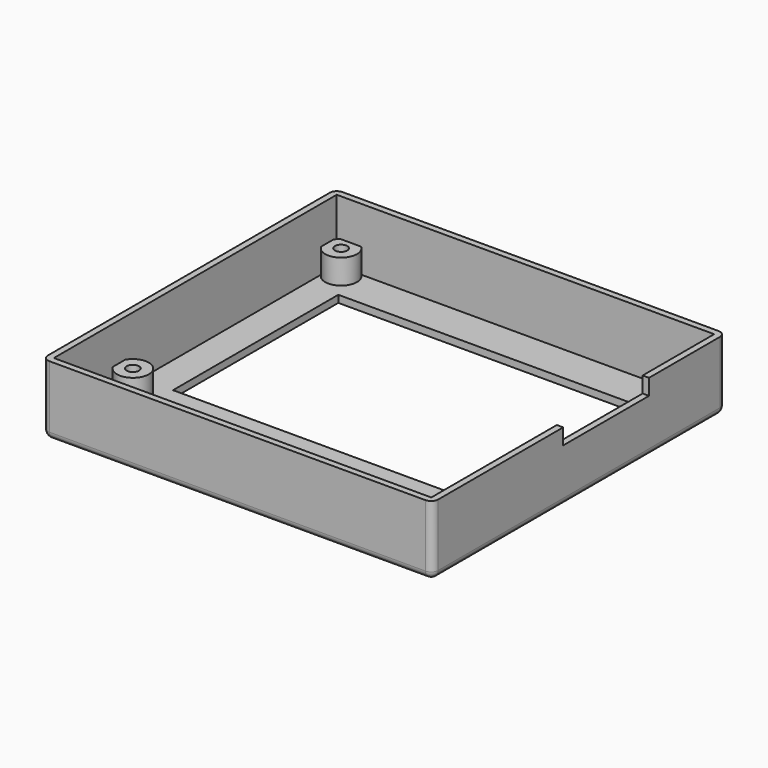
from build123d import *

# Parameters (mm, degrees)
SKETCH_W      = 98.2
SKETCH_H      = 92.2
SKETCH_R      = 5
SKETCH_R_2    = 3.2
SKETCH_R_3    = 1.4
SKETCH_R_4    = 2.2
SKETCH_W_2    = 79
SKETCH_H_2    = 52
PAD_DEPTH     = 1.8
SKETCH001_W   = 98.2
SKETCH001_H   = 92.2
SKETCH001_W_2 = 95
SKETCH001_H_2 = 89
PAD001_DEPTH  = 15.7
SKETCH002_R   = 4
SKETCH002_R_2 = 1.55
PAD002_DEPTH  = 6.2
FILLET_R      = 1.79
SKETCH003_W   = 27
SKETCH003_H   = 4
POCKET_DEPTH  = 1.6


with BuildPart() as part:
    # Sketch → Pad (new body)
    with BuildSketch(Plane.XY):
        Rectangle(SKETCH_W, SKETCH_H)
        with Locations((-37, -35)):
            Circle(SKETCH_R, mode=Mode.SUBTRACT)
        with Locations((-4, -35)):
            Circle(SKETCH_R_2, mode=Mode.SUBTRACT)
        with Locations((-23.1, -35)):
            Circle(SKETCH_R_3, mode=Mode.SUBTRACT)
        with Locations((-18.5, -30.4)):
            Circle(SKETCH_R_3, mode=Mode.SUBTRACT)
        with Locations((-13.9, -35)):
            Circle(SKETCH_R_3, mode=Mode.SUBTRACT)
        with Locations((-18.5, -39.6)):
            Circle(SKETCH_R_3, mode=Mode.SUBTRACT)
        with Locations((-18.5, -35)):
            Circle(SKETCH_R_4, mode=Mode.SUBTRACT)
        with Locations((-21.752691, -31.747309)):
            Circle(SKETCH_R_3, mode=Mode.SUBTRACT)
        with Locations((-15.247309, -31.747309)):
            Circle(SKETCH_R_3, mode=Mode.SUBTRACT)
        with Locations((-15.247309, -38.252691)):
            Circle(SKETCH_R_3, mode=Mode.SUBTRACT)
        with Locations((-21.752691, -38.252691)):
            Circle(SKETCH_R_3, mode=Mode.SUBTRACT)
        with Locations((38.5, -31.5)):
            Circle(SKETCH_R_2, mode=Mode.SUBTRACT)
        with Locations((0, 9)):
            Rectangle(SKETCH_W_2, SKETCH_H_2, mode=Mode.SUBTRACT)
    extrude(amount=PAD_DEPTH)

    # Sketch001 → Pad001 (new body)
    with BuildSketch(Plane.XY.offset(1.8)):
        Rectangle(SKETCH001_W, SKETCH001_H)
        Rectangle(SKETCH001_W_2, SKETCH001_H_2, mode=Mode.SUBTRACT)
    extrude(amount=PAD001_DEPTH)

    # Sketch002 → Pad002 (new body)
    with BuildSketch(Plane.XY.offset(1.8)):
        with Locations((-44, 41.5)):
            Circle(SKETCH002_R)
        with Locations((-44, 41.5)):
            Circle(SKETCH002_R_2, mode=Mode.SUBTRACT)
        with Locations((44, 41.5)):
            Circle(SKETCH002_R)
        with Locations((44, 41.5)):
            Circle(SKETCH002_R_2, mode=Mode.SUBTRACT)
        with Locations((44, -24)):
            Circle(SKETCH002_R)
        with Locations((44, -24)):
            Circle(SKETCH002_R_2, mode=Mode.SUBTRACT)
        with Locations((-44, -24)):
            Circle(SKETCH002_R)
        with Locations((-44, -24)):
            Circle(SKETCH002_R_2, mode=Mode.SUBTRACT)
    extrude(amount=PAD002_DEPTH)

    # Fillet
    fillet_edges = [part.edges().sort_by_distance(p)[0] for p in [
        (-49.1, 46.1, 0.9),
        (-49.1, 46.1, 9.65),
        (-49.1, -46.1, 0.9),
        (-49.1, -46.1, 9.65),
        (49.1, 46.1, 0.9),
        (49.1, 46.1, 9.65),
        (49.1, -46.1, 0.9),
        (49.1, -46.1, 9.65),
        (0, -46.1, 0),
        (49.1, 0, 0),
        (0, 46.1, 0),
        (-49.1, 0, 0),
    ]]
    fillet(fillet_edges, radius=FILLET_R)

    # Sketch003 → Pocket (cut)
    with BuildSketch(Plane.YZ.offset(49.1)):
        with Locations((8.5, 15.5)):
            Rectangle(SKETCH003_W, SKETCH003_H)
    extrude(amount=-POCKET_DEPTH, mode=Mode.SUBTRACT)


solid = part.part
